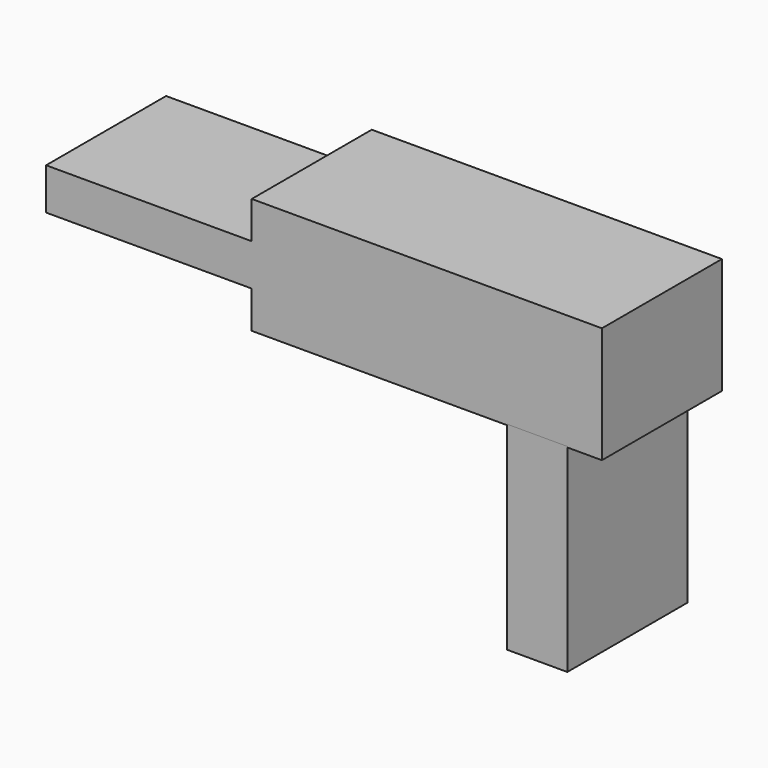
from build123d import *

# Parameters (mm, degrees)
F0_W     = 34.826118499
F0_H     = 7.055290509
F2_DEPTH = 25.4
F1_W     = 10.207653977
F1_H     = 33.6252143607


with BuildPart() as f2:
    # F0 (on Front) → F2 (new body)
    with BuildSketch(Plane.XZ):
        with Locations((-47.0602922142, 0)):
            Rectangle(F0_W, F0_H)
        Polygon((29.6472329646, 9.8323728889), (-29.6472329646, 9.8323728889), (-29.6472329646, 3.5276452545), (-29.6472329646, -3.5276452545), (-29.6472329646, -9.8323728889), (29.6472329646, -9.8323728889), align=None)
    extrude(amount=F2_DEPTH)


with BuildPart() as f2b:
    # F1 (on Front) → F2, piece 2 (new body)
    with BuildSketch(Plane.XZ):
        with Locations((18.6890135519, -26.4948685654)):
            Rectangle(F1_W, F1_H)
    extrude(amount=F2_DEPTH)


solid = Compound([f2.part, f2b.part])
